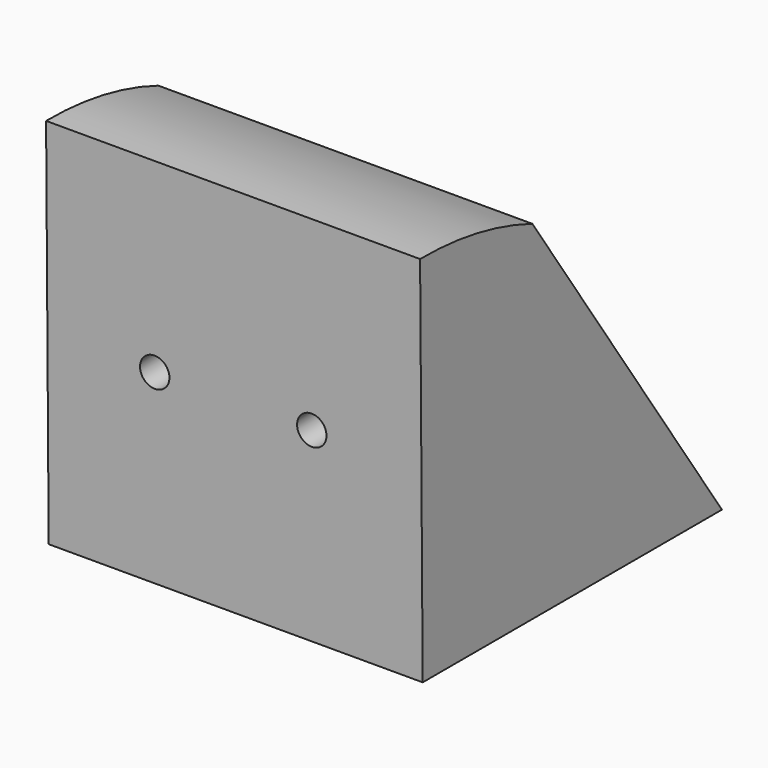
from build123d import *

# Parameters (mm, degrees)
F0_W       = 38.1
F0_H       = 38.1
F1_ANGLE   = 68.5
F3_DEPTH   = 38.101
F1_FACE1_W = 38.1
F1_FACE1_H = 38.1
F4_ANGLE   = 22
F5_R       = 1.4986
F6_R       = 1.4986
F7_DEPTH   = 6.35
F8_R       = 1.4986
F9_DEPTH   = 6.35


with BuildPart() as f1:
    # F0 (on Top) → F1 (revolve)
    with BuildSketch(Plane.XY):
        with Locations((0.4687455922, 2.6705784231)):
            Rectangle(F0_W, F0_H)
    revolve(axis=Axis((0.4687455922, -16.3794215769, 0), (1, 0, 0)), revolution_arc=F1_ANGLE)

    # F2 (on face) → F3 (cut, through all)
    with BuildSketch(Plane(origin=(-18.5812544078, 0, 0), x_dir=(0, -1, 0), z_dir=(-1, 0, 0))):
        with BuildLine():
            Line((-21.7205784231, 0), (2.4157248387, 35.4489093401))
            ThreePointArc((2.4157248387, 35.4489093401), (-15.1136478649, 21.4428677452), (-21.7205784231, 0))
        make_face()
    extrude(amount=-F3_DEPTH, mode=Mode.SUBTRACT)

    # F1_face1 (on face) → F4 (revolve)
    with BuildSketch(Plane(origin=(0.4687455922, -9.3975732078, 17.7244546701), x_dir=(1, 0, 0), z_dir=(0, -0.930417568, 0.3665012267))):
        Rectangle(F1_FACE1_W, F1_FACE1_H)
    revolve(axis=Axis((0.4687455922, -16.3794215769, 0), (1, 0, 0)), revolution_arc=F4_ANGLE)

    # F5 (on face) + F6 (on face) → F7 (cut)
    with BuildSketch(Plane(origin=(0, -16.3781742442, -0.1429301613), x_dir=(1, 0, 0), z_dir=(0, -0.9999619231, -0.0087265355))):
        with Locations((-7.6464321464, 19.1929356038)):
            Circle(F5_R)
    with BuildSketch(Plane(origin=(0, -16.3781742442, -0.1429301613), x_dir=(1, 0, 0), z_dir=(0, -0.9999619231, -0.0087265355))):
        with Locations((8.3530278536, 19.1929356038)):
            Circle(F6_R)
    extrude(amount=-F7_DEPTH, mode=Mode.SUBTRACT)

    # F8 (on face) → F9 (cut)
    with BuildSketch(Plane(origin=(0, 14.8405985302, 10.1046038758), x_dir=(-1, 0, 0), z_dir=(0, 0.8265897491, 0.5628049277))):
        with Locations((-9.9312769204, 8.9093865827)):
            Circle(F8_R)
        with Locations((6.0707230796, 8.9093865827)):
            Circle(F8_R)
    extrude(amount=-F9_DEPTH, mode=Mode.SUBTRACT)


solid = f1.part
